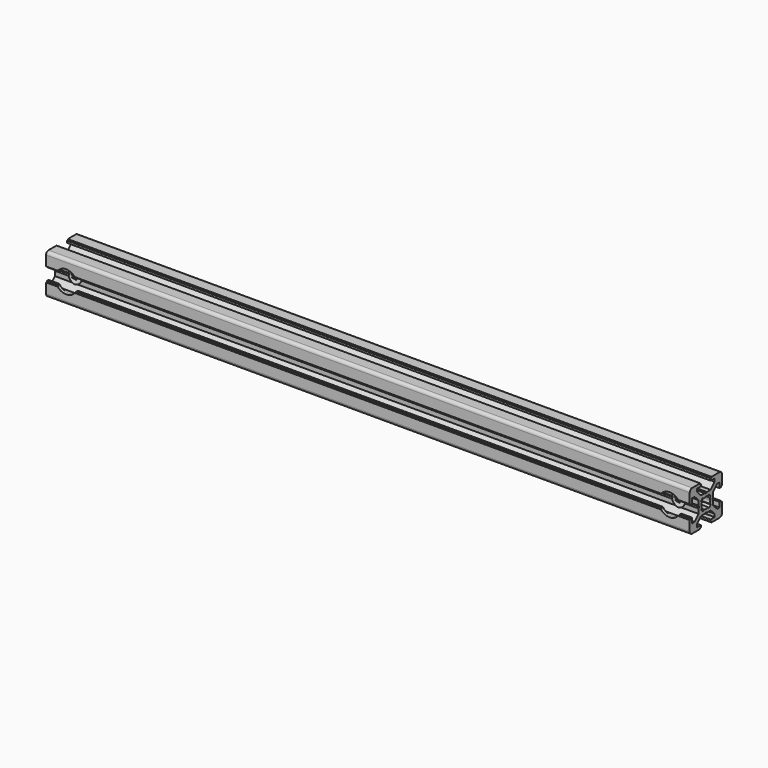
from build123d import *

# Parameters (mm, degrees)
PAD_DEPTH       = 320
SKETCH001_R     = 3.25
POCKET_DEPTH    = 21
SKETCH002_R     = 5.5
POCKET001_DEPTH = 2


with BuildPart() as part:
    # Sketch → Pad (new body)
    with BuildSketch(Plane.YZ):
        with BuildLine():
            Line((0, 4.1), (0.65, 4.5))
            Line((0.65, 4.5), (3, 4.5))
            Line((3, 4.5), (5.5, 7))
            Line((5.5, 7), (5.5, 8.5))
            Line((5.5, 8.5), (3, 8.5))
            Line((3, 8.5), (3, 9.5))
            Line((3, 9.5), (3.5, 9.5))
            Line((3.5, 9.5), (3.5, 10))
            Line((3.5, 10), (8.5, 10))
            ThreePointArc((10, 8.5), (9.56066, 9.56066), (8.5, 10))
            Line((10, 8.5), (10, 3.5))
            Line((10, 3.5), (9.5, 3.5))
            Line((9.5, 3.5), (9.5, 3))
            Line((9.5, 3), (8.5, 3))
            Line((8.5, 3), (8.5, 5.5))
            Line((8.5, 5.5), (7, 5.5))
            Line((7, 5.5), (4.5, 3))
            Line((4.5, 3), (4.5, 0.65))
            Line((4.5, 0.65), (4.1, 0))
            Line((4.5, -0.65), (4.1, 0))
            Line((4.5, -3), (4.5, -0.65))
            Line((7, -5.5), (4.5, -3))
            Line((8.5, -5.5), (7, -5.5))
            Line((8.5, -3), (8.5, -5.5))
            Line((9.5, -3), (8.5, -3))
            Line((9.5, -3.5), (9.5, -3))
            Line((10, -3.5), (9.5, -3.5))
            Line((10, -8.5), (10, -3.5))
            ThreePointArc((8.5, -10), (9.56066, -9.56066), (10, -8.5))
            Line((3.5, -10), (8.5, -10))
            Line((3.5, -9.5), (3.5, -10))
            Line((3, -9.5), (3.5, -9.5))
            Line((3, -8.5), (3, -9.5))
            Line((5.5, -8.5), (3, -8.5))
            Line((5.5, -7), (5.5, -8.5))
            Line((3, -4.5), (5.5, -7))
            Line((0.65, -4.5), (3, -4.5))
            Line((0, -4.1), (0.65, -4.5))
            Line((0, -4.1), (-0.65, -4.5))
            Line((-0.65, -4.5), (-3, -4.5))
            Line((-3, -4.5), (-5.5, -7))
            Line((-5.5, -7), (-5.5, -8.5))
            Line((-5.5, -8.5), (-3, -8.5))
            Line((-3, -8.5), (-3, -9.5))
            Line((-3, -9.5), (-3.5, -9.5))
            Line((-3.5, -9.5), (-3.5, -10))
            Line((-3.5, -10), (-8.5, -10))
            ThreePointArc((-10, -8.5), (-9.56066, -9.56066), (-8.5, -10))
            Line((-10, -8.5), (-10, -3.5))
            Line((-10, -3.5), (-9.5, -3.5))
            Line((-9.5, -3.5), (-9.5, -3))
            Line((-9.5, -3), (-8.5, -3))
            Line((-8.5, -3), (-8.5, -5.5))
            Line((-8.5, -5.5), (-7, -5.5))
            Line((-7, -5.5), (-4.5, -3))
            Line((-4.5, -3), (-4.5, -0.65))
            Line((-4.5, -0.65), (-4.1, 0))
            Line((-4.5, 0.65), (-4.1, 0))
            Line((-4.5, 3), (-4.5, 0.65))
            Line((-7, 5.5), (-4.5, 3))
            Line((-8.5, 5.5), (-7, 5.5))
            Line((-8.5, 3), (-8.5, 5.5))
            Line((-9.5, 3), (-8.5, 3))
            Line((-9.5, 3.5), (-9.5, 3))
            Line((-10, 3.5), (-9.5, 3.5))
            Line((-10, 8.5), (-10, 3.5))
            ThreePointArc((-8.5, 10), (-9.56066, 9.56066), (-10, 8.5))
            Line((-3.5, 10), (-8.5, 10))
            Line((-3.5, 9.5), (-3.5, 10))
            Line((-3, 9.5), (-3.5, 9.5))
            Line((-3, 8.5), (-3, 9.5))
            Line((-5.5, 8.5), (-3, 8.5))
            Line((-5.5, 7), (-5.5, 8.5))
            Line((-3, 4.5), (-5.5, 7))
            Line((-0.65, 4.5), (-3, 4.5))
            Line((0, 4.1), (-0.65, 4.5))
        make_face()
        with BuildLine():
            Line((1.340499, 2.401159), (1.923239, 2.983899))
            Line((1.923239, 2.983899), (2.983899, 1.923239))
            Line((2.983899, 1.923239), (2.401159, 1.340499))
            ThreePointArc((2.75, 0), (2.661361, 0.692573), (2.401159, 1.340499))
            ThreePointArc((2.401164, -1.34049), (2.661362, -0.692568), (2.75, 0))
            Line((2.983904, -1.92323), (2.401164, -1.34049))
            Line((1.923247, -2.983894), (2.983904, -1.92323))
            Line((1.340507, -2.401154), (1.923247, -2.983894))
            ThreePointArc((0, -2.75), (0.692577, -2.66136), (1.340507, -2.401154))
            ThreePointArc((-1.340507, -2.401154), (-0.692577, -2.66136), (0, -2.75))
            Line((-1.340507, -2.401154), (-1.923247, -2.983894))
            Line((-1.923247, -2.983894), (-2.983904, -1.92323))
            Line((-2.983904, -1.92323), (-2.401164, -1.34049))
            ThreePointArc((-2.75, 0), (-2.661362, -0.692568), (-2.401164, -1.34049))
            ThreePointArc((-2.401159, 1.340499), (-2.661361, 0.692572), (-2.75, 0))
            Line((-2.983899, 1.923239), (-2.401159, 1.340499))
            Line((-1.923239, 2.983899), (-2.983899, 1.923239))
            Line((-1.340499, 2.401159), (-1.923239, 2.983899))
            ThreePointArc((0, 2.75), (-0.692573, 2.661361), (-1.340499, 2.401159))
            ThreePointArc((1.340499, 2.401159), (0.692573, 2.661361), (0, 2.75))
        make_face(mode=Mode.SUBTRACT)
    extrude(amount=PAD_DEPTH)

    # Sketch001 → Pocket (cut)
    with BuildSketch(Plane.XZ.offset(10)):
        with Locations((10, 0)):
            Circle(SKETCH001_R)
        with Locations((310, 0)):
            Circle(SKETCH001_R)
    extrude(amount=-POCKET_DEPTH, mode=Mode.SUBTRACT)

    # Sketch002 → Pocket001 (cut)
    with BuildSketch(Plane.XZ.offset(10)):
        with Locations((10, 0)):
            Circle(SKETCH002_R)
        with Locations((310, 0)):
            Circle(SKETCH002_R)
    extrude(amount=-POCKET001_DEPTH, mode=Mode.SUBTRACT)


solid = part.part
